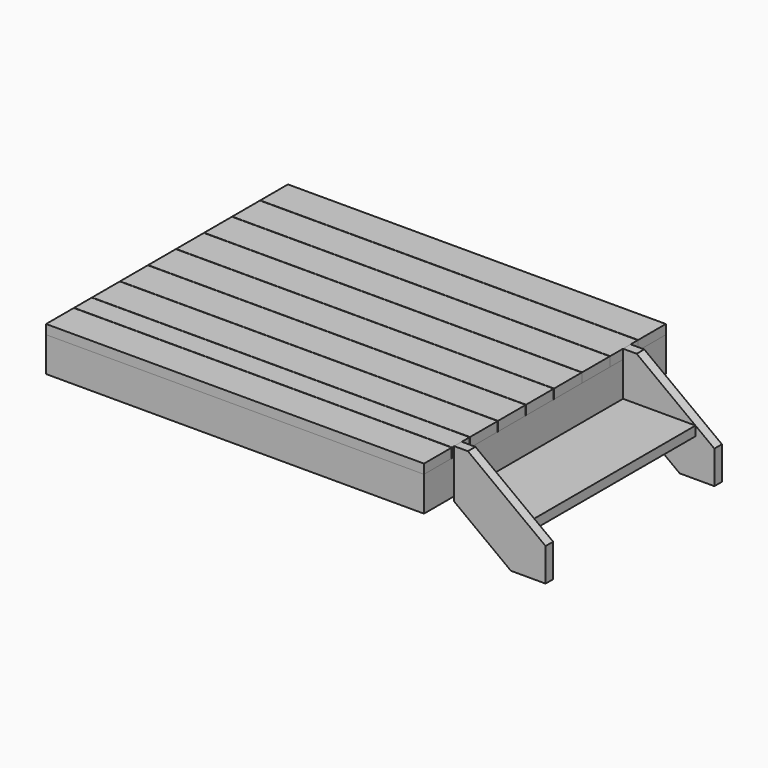
from build123d import *

# Parameters (mm, degrees)
F0_W      = 1524
F0_H      = 1219.2
F0_W_2    = 333.375
F0_H_2    = 1143
F1_DEPTH  = 139.7
F2_W      = 139.7
F2_H      = 38.1
F3_DEPTH  = 1524
F2_W_2    = 88.9
F6_DEPTH  = 38.1
F10_DEPTH = 812.8


with BuildPart() as f1:
    # F0 (on Top) → F1 (new body)
    with BuildSketch(Plane.XY):
        Rectangle(F0_W, F0_H)
        with Locations((-557.2125, 0)):
            Rectangle(F0_W_2, F0_H_2, mode=Mode.SUBTRACT)
        with Locations((-185.7375, 0)):
            Rectangle(F0_W_2, F0_H_2, mode=Mode.SUBTRACT)
        with Locations((185.7375, 0)):
            Rectangle(F0_W_2, F0_H_2, mode=Mode.SUBTRACT)
        with Locations((557.2125, 0)):
            Rectangle(F0_W_2, F0_H_2, mode=Mode.SUBTRACT)
    extrude(amount=F1_DEPTH)


with BuildPart() as f3:
    # F2 (on face) → F3 (new body, through all)
    with BuildSketch(Plane(origin=(-762, 0, 0), x_dir=(0, -1, 0), z_dir=(-1, 0, 0))):
        with Locations((-115.8875, 158.75)):
            Rectangle(F2_W, F2_H)
    extrude(amount=-F3_DEPTH)


with BuildPart() as f3b:
    # F2 (on face) → F3, piece 2 (new body, through all)
    with BuildSketch(Plane(origin=(-762, 0, 0), x_dir=(0, -1, 0), z_dir=(-1, 0, 0))):
        with Locations((25.4, 158.75)):
            Rectangle(F2_W, F2_H)
    extrude(amount=-F3_DEPTH)


with BuildPart() as f3c:
    # F2 (on face) → F3, piece 3 (new body, through all)
    with BuildSketch(Plane(origin=(-762, 0, 0), x_dir=(0, -1, 0), z_dir=(-1, 0, 0))):
        with Locations((423.8625, 158.75)):
            Rectangle(F2_W_2, F2_H)
    extrude(amount=-F3_DEPTH)


with BuildPart() as f3d:
    # F2 (on face) → F3, piece 4 (new body, through all)
    with BuildSketch(Plane(origin=(-762, 0, 0), x_dir=(0, -1, 0), z_dir=(-1, 0, 0))):
        with Locations((539.75, 158.75)):
            Rectangle(F2_W, F2_H)
    extrude(amount=-F3_DEPTH)


with BuildPart() as f3e:
    # F2 (on face) → F3, piece 5 (new body, through all)
    with BuildSketch(Plane(origin=(-762, 0, 0), x_dir=(0, -1, 0), z_dir=(-1, 0, 0))):
        with Locations((166.6875, 158.75)):
            Rectangle(F2_W, F2_H)
    extrude(amount=-F3_DEPTH)


with BuildPart() as f3f:
    # F2 (on face) → F3, piece 6 (new body, through all)
    with BuildSketch(Plane(origin=(-762, 0, 0), x_dir=(0, -1, 0), z_dir=(-1, 0, 0))):
        with Locations((307.975, 158.75)):
            Rectangle(F2_W, F2_H)
    extrude(amount=-F3_DEPTH)


with BuildPart() as f3g:
    # F2 (on face) → F3, piece 7 (new body, through all)
    with BuildSketch(Plane(origin=(-762, 0, 0), x_dir=(0, -1, 0), z_dir=(-1, 0, 0))):
        with Locations((-539.75, 158.75)):
            Rectangle(F2_W, F2_H)
    extrude(amount=-F3_DEPTH)


with BuildPart() as f3h:
    # F2 (on face) → F3, piece 8 (new body, through all)
    with BuildSketch(Plane(origin=(-762, 0, 0), x_dir=(0, -1, 0), z_dir=(-1, 0, 0))):
        with Locations((-398.4625, 158.75)):
            Rectangle(F2_W, F2_H)
    extrude(amount=-F3_DEPTH)


with BuildPart() as f3i:
    # F2 (on face) → F3, piece 9 (new body, through all)
    with BuildSketch(Plane(origin=(-762, 0, 0), x_dir=(0, -1, 0), z_dir=(-1, 0, 0))):
        with Locations((-257.175, 158.75)):
            Rectangle(F2_W, F2_H)
    extrude(amount=-F3_DEPTH)


with BuildPart() as f6:
    # F5 (on offset) → F6 (new body)
    with BuildSketch(Plane.XZ.offset(457.2)):
        Polygon((817.0333333333, 177.8), (762, 177.8), (762, -19.05), (990.6, -190.5), (1130.3, -190.5), (1130.3, -57.15), align=None)
    extrude(amount=-F6_DEPTH)


with BuildPart() as f8_1:
    # F8: instance of F6
    add(f6.part.mirror(Plane(origin=(935.8203603196, -12.7, -24.0918023519), x_dir=(1, 0, 0), z_dir=(0, 1, 0))))


with BuildPart() as f10:
    # F9 (on face) → F10 (new body, through all)
    with BuildSketch(Plane.XZ.offset(-393.7)):
        Polygon((1054.1, 0), (762, 0), (762, -19.05), (787.4, -38.1), (1054.1, -38.1), align=None)
    extrude(amount=F10_DEPTH)


solid = Compound([f1.part, f3.part, f3b.part, f3c.part, f3d.part, f3e.part, f3f.part, f3g.part, f3h.part, f3i.part, f6.part, f8_1.part, f10.part])
